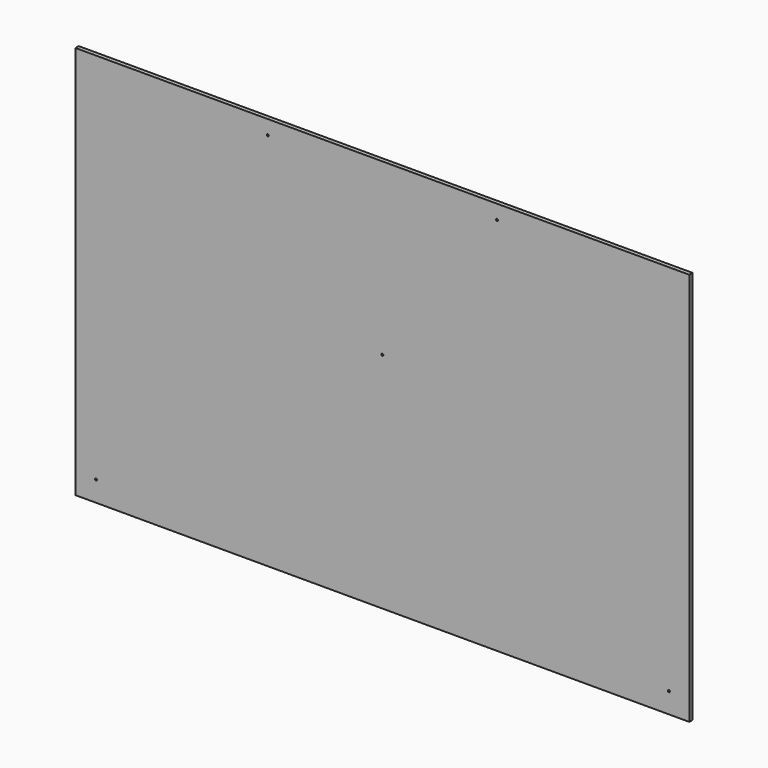
from build123d import *

# Parameters (mm, degrees)
F0_W     = 1500
F0_H     = 962
F1_DEPTH = 10
F2_R     = 2.5
F3_DEPTH = 10.001
F4_R     = 2.5
F5_DEPTH = 10.001
F6_R     = 2.5
F7_DEPTH = 10.001


with BuildPart() as f1:
    # F0 (on Front) → F1 (new body)
    with BuildSketch(Plane.XZ):
        with Locations((-3.242647, -35.230274)):
            Rectangle(F0_W, F0_H)
    extrude(amount=F1_DEPTH)

    # F2 (on face) → F3 (cut, through all)
    with BuildSketch(Plane.XZ.offset(10)):
        with Locations((-703.242647, -466.230274)):
            Circle(F2_R)
        with Locations((696.757353, -466.230274)):
            Circle(F2_R)
    extrude(amount=-F3_DEPTH, mode=Mode.SUBTRACT)

    # F4 (on face) → F5 (cut, through all)
    with BuildSketch(Plane.XZ.offset(10)):
        with Locations((-283.242647, 410.769726)):
            Circle(F4_R)
        with Locations((276.757353, 410.769726)):
            Circle(F4_R)
    extrude(amount=-F5_DEPTH, mode=Mode.SUBTRACT)

    # F6 (on face) → F7 (cut, through all)
    with BuildSketch(Plane.XZ.offset(10)):
        with Locations((-3.242647, 29.769726)):
            Circle(F6_R)
    extrude(amount=-F7_DEPTH, mode=Mode.SUBTRACT)


solid = f1.part
